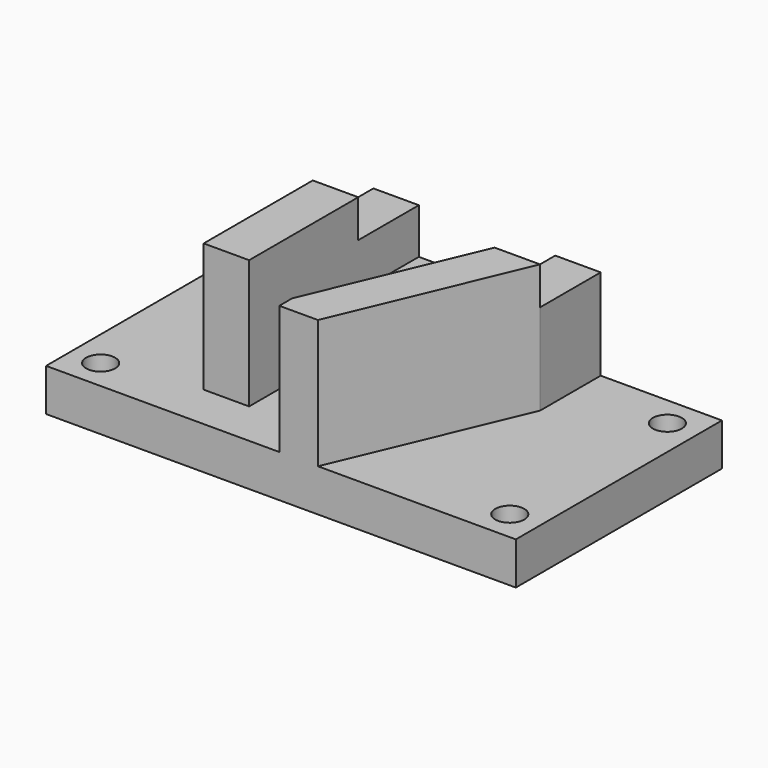
from build123d import *

# Parameters (mm, degrees)
F0_W      = 98.425
F0_H      = 53.975
F1_DEPTH  = 8.89
F3_DEPTH  = 9.525
F5_DEPTH  = 19.05
F7_DEPTH  = 7.9248
F8_W      = 9.525
F8_H      = 53.975
F9_DEPTH  = 9.525
F10_W     = 9.525
F10_H     = 38.1
F11_DEPTH = 7.9248
F12_R     = 3.041543
F13_DEPTH = 25.4
F14_W     = 9.525
F14_H     = 9.525
F15_DEPTH = 26.9748


with BuildPart() as f1:
    # F0 (on Top) → F1 (new body)
    with BuildSketch(Plane.XY):
        with Locations((49.2125, 26.9875)):
            Rectangle(F0_W, F0_H)
    extrude(amount=F1_DEPTH)

    # F2 (on face) → F3 (join)
    with BuildSketch(Plane.XY.offset(8.89)):
        Polygon((25.4, 0), (34.925, 0), (34.925, 38.1), (44.45, 38.1), (44.45, 53.975), (25.4, 53.975), align=None)
    extrude(amount=F3_DEPTH)

    # F4 (on face) → F5 (join)
    with BuildSketch(Plane.XY.offset(8.89)):
        Polygon((73.025, 53.975), (63.5, 53.975), (63.5, 38.1), (48.8696, 3.41884), (48.8696, 0), (56.952347, 0), (73.025, 38.1), align=None)
    extrude(amount=F5_DEPTH)

    # F6 (on face) → F7 (join)
    with BuildSketch(Plane.XY.offset(27.94)):
        Polygon((48.8696, 0), (56.952347, 0), (73.025, 38.1), (63.5, 38.1), (48.8696, 3.41884), align=None)
    extrude(amount=F7_DEPTH)

    # F8 (on face) → F9 (join)
    with BuildSketch(Plane.XY.offset(18.415)):
        with Locations((30.1625, 26.9875)):
            Rectangle(F8_W, F8_H)
    extrude(amount=F9_DEPTH)

    # F10 (on face) → F11 (join)
    with BuildSketch(Plane.XY.offset(27.94)):
        with Locations((30.1625, 19.05)):
            Rectangle(F10_W, F10_H)
    extrude(amount=F11_DEPTH)

    # F12 (on face) → F13 (cut)
    with BuildSketch(Plane.XY.offset(8.89)):
        with Locations((6.35, 47.625)):
            Circle(F12_R)
        with Locations((6.35, 6.35)):
            Circle(F12_R)
        with Locations((92.075, 6.35)):
            Circle(F12_R)
        with Locations((92.075, 47.625)):
            Circle(F12_R)
    extrude(amount=-F13_DEPTH, mode=Mode.SUBTRACT)

    # F14 (on face) → F15 (cut, through all)
    with BuildSketch(Plane.XY.offset(35.8648)):
        with Locations((30.1625, 4.7625)):
            Rectangle(F14_W, F14_H)
    extrude(amount=-F15_DEPTH, mode=Mode.SUBTRACT)


solid = f1.part
